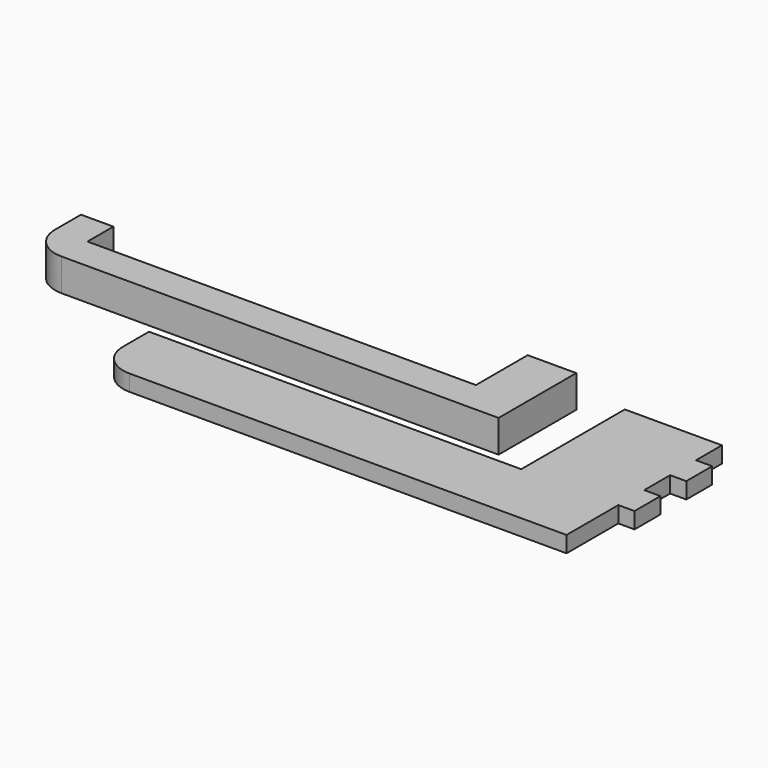
from build123d import *

# Parameters (mm, degrees)
F1_DEPTH = 10
F3_DEPTH = 5


with BuildPart() as f1:
    # F0 (on Top) → F1 (new body)
    with BuildSketch(Plane.XY):
        with BuildLine():
            Line((-50, 0), (-60, 0))
            Line((-60, 0), (-60, -10))
            ThreePointArc((-60, -10), (-57.071068, -17.071068), (-50, -20))
            Line((-50, -20), (70, -20))
            Line((70, -20), (85, -20))
            Line((85, -20), (85, -10))
            Line((85, -10), (85, 10))
            Line((85, 10), (70, 10))
            Line((70, 10), (70, -10))
            Line((70, -10), (-50, -10))
            Line((-50, -10), (-50, 0))
        make_face()
    extrude(amount=F1_DEPTH)


with BuildPart() as f3:
    # F2 (on Top) → F3 (new body)
    with BuildSketch(Plane.XY):
        with BuildLine():
            Line((-5, -30), (-15, -30))
            Line((-15, -30), (-15, -40))
            ThreePointArc((-15, -40), (-12.071068, -47.071068), (-5, -50))
            Line((-5, -50), (115, -50))
            Line((115, -50), (130, -50))
            Line((130, -50), (130, -30))
            Line((130, -30), (135, -30))
            Line((135, -30), (135, -20))
            Line((135, -20), (130, -20))
            Line((130, -20), (130, -10))
            Line((130, -10), (135, -10))
            Line((135, -10), (135, 0))
            Line((135, 0), (130, 0))
            Line((130, 0), (130, 10))
            Line((130, 10), (115, 10))
            Line((115, 10), (100, 10))
            Line((100, 10), (100, -30))
            Line((100, -30), (-5, -30))
        make_face()
    extrude(amount=F3_DEPTH)


solid = Compound([f1.part, f3.part])
